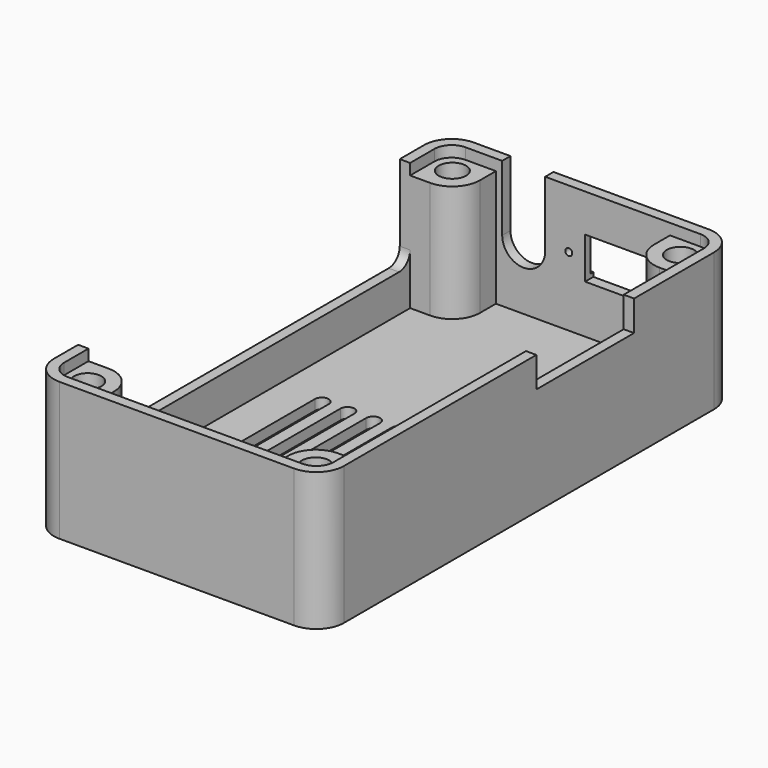
from build123d import *

# Parameters (mm, degrees)
PAD_DEPTH           = 20
SKETCH001_R         = 1.6891
POCKET_DEPTH        = 18.5
POCKET001_DEPTH     = 1.6
POCKET002_DEPTH     = 5
POCKET004_DEPTH     = 5
LINEARPATTERN_COUNT = 8
LINEARPATTERN_PITCH = 3.714286
SKETCH006_W         = 58.2
SKETCH006_H         = 13.0912
POCKET005_DEPTH     = 5
SKETCH009_W         = 20
SKETCH009_H         = 4.8
POCKET007_DEPTH     = 0.5
SKETCH010_R         = 1.98
POCKET011_DEPTH     = 5
SKETCH012_R         = 0.5
POCKET013_DEPTH     = 2
SKETCH013_W         = 10.6
SKETCH013_H         = 6
POCKET014_DEPTH     = 5
SKETCH004_W         = 17.68
SKETCH004_H         = 4.4
POCKET015_DEPTH     = 5
FILLET_R            = 2


with BuildPart() as part:
    # Sketch → Pad (new body)
    with BuildSketch(Plane.XY):
        with BuildLine():
            Line((-17, 37.5), (17, 37.5))
            ThreePointArc((21, 33.5), (19.828427, 36.328427), (17, 37.5))
            Line((21, 33.5), (21, -33.5))
            ThreePointArc((17, -37.5), (19.828427, -36.328427), (21, -33.5))
            Line((17, -37.5), (-17, -37.5))
            ThreePointArc((-21, -33.5), (-19.828427, -36.328427), (-17, -37.5))
            Line((-21, -33.5), (-21, 33.5))
            ThreePointArc((-17, 37.5), (-19.828427, 36.328427), (-21, 33.5))
        make_face()
    extrude(amount=PAD_DEPTH)

    # Sketch001 (on Face10 of Pad) → Pocket (cut)
    with BuildSketch(Plane.XY.offset(20)):
        with Locations((-16.5, -33)):
            Circle(SKETCH001_R)
        with Locations((16.5, -33)):
            Circle(SKETCH001_R)
        with Locations((16.5, 33)):
            Circle(SKETCH001_R)
        with Locations((-16.5, 33)):
            Circle(SKETCH001_R)
        with BuildLine():
            Line((-12.6, 36), (12.6, 36))
            Line((12.6, 36), (12.6, 33.1))
            ThreePointArc((12.6, 33.1), (13.771573, 30.271573), (16.6, 29.1))
            Line((16.6, 29.1), (19.5, 29.1))
            Line((19.5, 29.1), (19.5, -29.1))
            Line((19.5, -29.1), (16.6, -29.1))
            ThreePointArc((16.6, -29.1), (13.771573, -30.271573), (12.6, -33.1))
            Line((12.6, -33.1), (12.6, -36))
            Line((12.6, -36), (-12.6, -36))
            Line((-12.6, -36), (-12.6, -33.1))
            ThreePointArc((-12.6, -33.1), (-13.771573, -30.271573), (-16.6, -29.1))
            Line((-16.6, -29.1), (-19.5, -29.1))
            Line((-19.5, -29.1), (-19.5, 29.1))
            Line((-19.5, 29.1), (-16.6, 29.1))
            ThreePointArc((-16.6, 29.1), (-13.771573, 30.271573), (-12.6, 33.1))
            Line((-12.6, 33.1), (-12.6, 36))
        make_face()
    extrude(amount=-POCKET_DEPTH, mode=Mode.SUBTRACT)

    # Sketch002 (on Face5 of Pocket) → Pocket001 (cut)
    with BuildSketch(Plane.XY.offset(20)):
        with BuildLine():
            Line((-17, 36), (17, 36))
            ThreePointArc((19.5, 33.5), (18.767767, 35.267767), (17, 36))
            Line((19.5, 33.5), (19.5, -33.5))
            ThreePointArc((17, -36), (18.767767, -35.267767), (19.5, -33.5))
            Line((17, -36), (-17, -36))
            ThreePointArc((-19.5, -33.5), (-18.767767, -35.267767), (-17, -36))
            Line((-19.5, -33.5), (-19.5, 33.5))
            ThreePointArc((-17, 36), (-18.767767, 35.267767), (-19.5, 33.5))
        make_face()
    extrude(amount=-POCKET001_DEPTH, mode=Mode.SUBTRACT)

    # Sketch003 (on Face7 of Pocket001) → Pocket002 (cut)
    with BuildSketch(Plane(origin=(0, 37.5, 0), x_dir=(-1, 0, 0), z_dir=(0, 1, 0))):
        with BuildLine():
            Line((5.4685, 10.5), (5.4685, 20))
            Line((5.4685, 20), (11.6915, 20))
            Line((11.6915, 20), (11.6915, 10.5))
            ThreePointArc((5.4685, 10.5), (8.58, 7.3885), (11.6915, 10.5))
        make_face()
    extrude(amount=-POCKET002_DEPTH, mode=Mode.SUBTRACT)

    # Sketch005 → Pocket004 (cut)
    with BuildSketch(Plane(origin=(0, 0, 0), x_dir=(1, 0, 0), z_dir=(0, 0, -1))):
        with BuildLine():
            ThreePointArc((-14, -5), (-13, -6), (-12, -5))
            Line((-12, -5), (-12, 28.5))
            ThreePointArc((-12, 28.5), (-13, 29.5), (-14, 28.5))
            Line((-14, -5), (-14, 28.5))
        make_face()
    pocket004 = extrude(amount=-POCKET004_DEPTH, mode=Mode.SUBTRACT)

    # LinearPattern: Pocket004 ×8
    with Locations(*[(i * LINEARPATTERN_PITCH, 0, 0) for i in range(1, LINEARPATTERN_COUNT)]):
        add(pocket004, mode=Mode.SUBTRACT)

    # Sketch006 (on Face1 of LinearPattern) → Pocket005 (cut)
    with BuildSketch(Plane(origin=(-21, 0, 0), x_dir=(0, -1, 0), z_dir=(-1, 0, 0))):
        with Locations((0, 13.4544)):
            Rectangle(SKETCH006_W, SKETCH006_H)
    extrude(amount=-POCKET005_DEPTH, mode=Mode.SUBTRACT)

    # Sketch009 → Pocket007 (cut)
    with BuildSketch(Plane(origin=(0, 37.5, 0), x_dir=(-1, 0, 0), z_dir=(0, 1, 0))):
        with Locations((-5.6, 11.5088)):
            Rectangle(SKETCH009_W, SKETCH009_H)
    extrude(amount=-POCKET007_DEPTH, mode=Mode.SUBTRACT)

    # Sketch010 → Pocket011 (cut)
    with BuildSketch(Plane.XY.offset(18.4)):
        with Locations((-16.5, 33)):
            Circle(SKETCH010_R)
        with Locations((16.5, 33)):
            Circle(SKETCH010_R)
        with Locations((-16.5, -33)):
            Circle(SKETCH010_R)
        with Locations((16.5, -33)):
            Circle(SKETCH010_R)
    extrude(amount=-POCKET011_DEPTH, mode=Mode.SUBTRACT)

    # Sketch012 → Pocket013 (cut)
    with BuildSketch(Plane(origin=(0, 37, 0), x_dir=(-1, 0, 0), z_dir=(0, 1, 0))):
        with Locations((-13.25, 11.5088)):
            Circle(SKETCH012_R)
        with Locations((2.05, 11.5088)):
            Circle(SKETCH012_R)
    extrude(amount=-POCKET013_DEPTH, mode=Mode.SUBTRACT)

    # Sketch013 (on Face11 of Pocket013) → Pocket014 (cut)
    with BuildSketch(Plane(origin=(0, 37.5, 0), x_dir=(-1, 0, 0), z_dir=(0, 1, 0))):
        with Locations((-5.6, 11.5088)):
            Rectangle(SKETCH013_W, SKETCH013_H)
    extrude(amount=-POCKET014_DEPTH, mode=Mode.SUBTRACT)

    # Sketch004 (on Face14 of Pocket014) → Pocket015 (cut)
    with BuildSketch(Plane.YZ.offset(21)):
        with Locations((10.16, 17.8)):
            Rectangle(SKETCH004_W, SKETCH004_H)
    extrude(amount=-POCKET015_DEPTH, mode=Mode.SUBTRACT)

    # Fillet
    fillet_edges = [part.edges().sort_by_distance(p)[0] for p in [
        (-20.25, 29.1, 6.9088),
        (-20.25, -29.1, 6.9088),
    ]]
    fillet(fillet_edges, radius=FILLET_R)


solid = part.part
